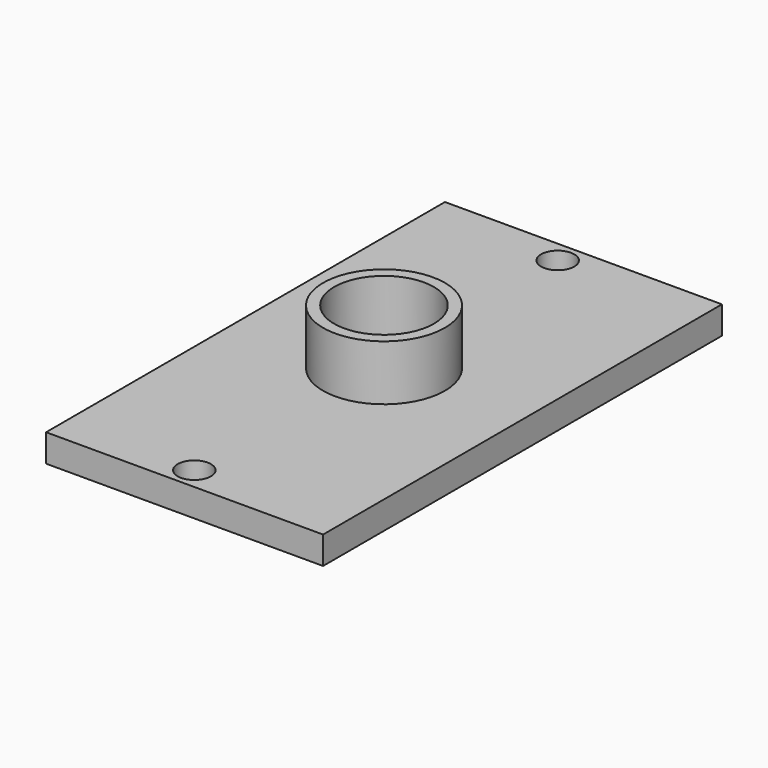
from build123d import *

# Parameters (mm, degrees)
F0_W     = 25
F0_H     = 45
F0_R     = 1.5
F0_R_2   = 5.5
F0_R_3   = 4.5
F1_DEPTH = 2.5
F2_DEPTH = 7.5


with BuildPart() as f1:
    # F0 (on Top) → F1 (new body)
    with BuildSketch(Plane.XY):
        with Locations((-12.019231, -13.076925)):
            Rectangle(F0_W, F0_H)
        with Locations((-12.742901, -33.576925)):
            Circle(F0_R, mode=Mode.SUBTRACT)
        with Locations((-12.019231, -13.076925)):
            Circle(F0_R_2, mode=Mode.SUBTRACT)
        with Locations((-12.742901, 7.423075)):
            Circle(F0_R, mode=Mode.SUBTRACT)
        with Locations((-12.019231, -13.076925)):
            Circle(F0_R_2)
        with Locations((-12.019231, -13.076925)):
            Circle(F0_R_3, mode=Mode.SUBTRACT)
    extrude(amount=F1_DEPTH)

    # F0 (on Top) → F2 (join)
    with BuildSketch(Plane.XY):
        with Locations((-12.019231, -13.076925)):
            Circle(F0_R_2)
        with Locations((-12.019231, -13.076925)):
            Circle(F0_R_3, mode=Mode.SUBTRACT)
    extrude(amount=F2_DEPTH)


solid = f1.part
